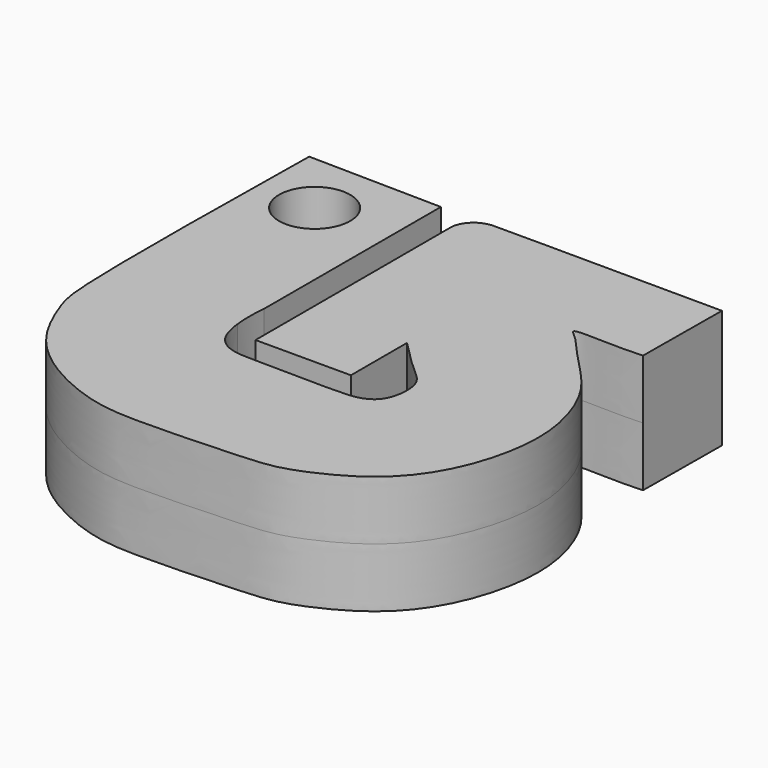
from build123d import *

# Parameters (mm, degrees)
F1_DEPTH = 2.5
F3_D     = 3
F3_DEPTH = 100
F3_TIP   = 0.9012909285


with BuildPart() as f1:
    # F0 (on Top) → F1 (new body, symmetric)
    with BuildSketch(Plane.XY):
        with BuildLine():
            Line((16.5197917333, 19.8714654365), (10.892221703, 19.9658014561))
            add(Edge.make_bspline(
                [(10.892221703, 19.9658014561), (10.8143546335, 14.8617160259), (10.7100488927, 8.0314186114), (11.1182113722, 6.553984652), (11.9444805125, 4.5641129634), (13.5940792842, 2.964889471), (16.2570606411, 1.7684227577), (18.649568188, 1.6895895082), (22.8137976587, 1.8628563269), (24.2453324085, 2.0298462818), (26.6972905667, 3.1685682186), (28.2635286355, 4.8883531104), (29.1848244879, 7.16439765), (29.4678485849, 9.8545076258), (28.4690410586, 12.6525753386), (26.7850485598, 14.1759532025), (25.8649631307, 15.3501661416), (25.0525766539, 15.8994306423), (27.0594329418, 15.659358863), (28.3403956203, 15.753088607)],
                knots=[0, 0, 0, 0, 0.1283408662, 0.1716381395, 0.2231442344, 0.2794325592, 0.3406165115, 0.3995173659, 0.4734509748, 0.5190196579, 0.5776287713, 0.6339272899, 0.6907887795, 0.7510892035, 0.8135466038, 0.8693592661, 0.9150095247, 0.937677537, 1, 1, 1, 1], degree=3))
            Line((28.3403956203, 15.753088607), (28.3718314825, 19.8714845763))
            Line((28.3718314825, 19.8714845763), (20.8581146656, 19.9029223011))
            Line((20.8581146656, 19.9029223011), (18.7203214376, 19.9029223011))
            ThreePointArc((18.7203214376, 19.9029223011), (18.0400292513, 19.6532023213), (17.6828634797, 19.02265483))
            Line((17.6828634797, 19.02265483), (17.6828634797, 8.6480668695))
            Line((17.6828634797, 8.6480668695), (21.7054787717, 8.6480668695))
            Line((21.7054787717, 8.6480668695), (21.7054787717, 11.604677221))
            add(Edge.make_bspline(
                [(21.7054787717, 11.604677221), (22.1737566938, 11.1238649471), (23.0111482648, 10.2794790097), (23.9281646559, 9.5899206587), (23.789063701, 8.0746610871), (23.1102587954, 7.5668735303), (22.1450924865, 7.4304855343), (18.9918082678, 7.5527942752), (17.5109656402, 7.4679105935), (16.7177356235, 8.0597889362), (16.5436114949, 8.8746494089), (16.5103217856, 9.1614913105)],
                knots=[0, 0, 0, 0, 0.124495978, 0.2183010226, 0.3223359925, 0.3999343384, 0.4885076922, 0.6498306095, 0.7607571133, 0.8568310519, 0.9037782095, 0.9037782095, 0.9037782095, 0.9037782095], degree=3))
            add(Edge.make_bspline(
                [(16.5103217856, 9.1614913105), (16.4569502555, 9.6213688969), (16.4649265807, 10.131012352), (16.5115551856, 10.5563968375)],
                knots=[0.9037782095, 0.9037782095, 0.9037782095, 0.9037782095, 0.9790459629, 0.9790459629, 0.9790459629, 0.9790459629], degree=3))
            Line((16.5115551856, 10.5563968375), (16.5197917333, 19.8714654365))
        make_face()
    extrude(amount=F1_DEPTH, both=True)

    # F3
    with Locations(Plane.XY.offset(2.5)):
        with Locations((13.3159989491, 17.2216873616)):
            Hole(F3_D / 2, depth=F3_DEPTH)
            with Locations((0, 0, -(F3_DEPTH + F3_TIP / 2))):  # 118° drill point
                Cone(0, F3_D / 2, F3_TIP, mode=Mode.SUBTRACT)


solid = f1.part
